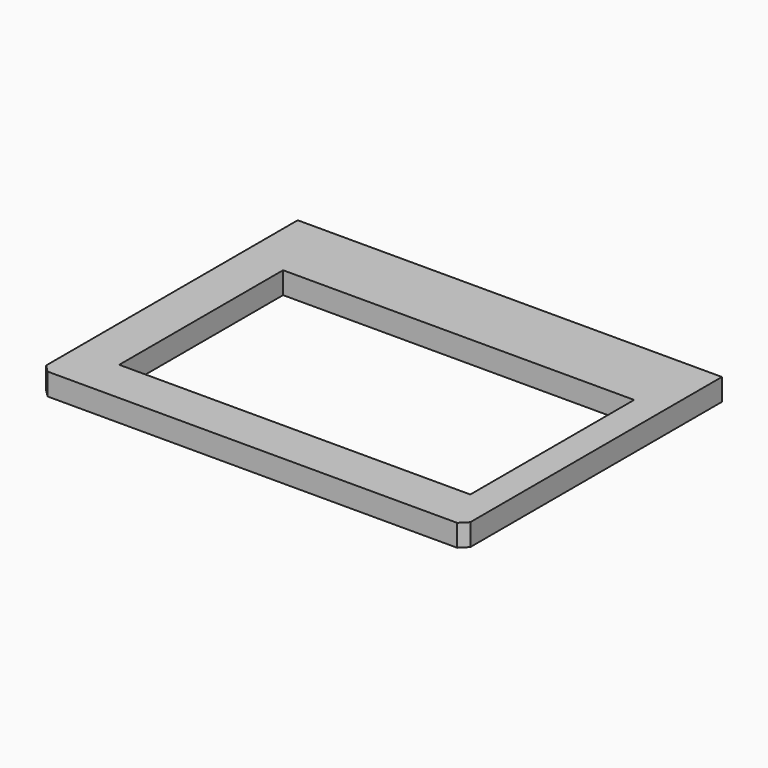
from build123d import *

# Parameters (mm, degrees)
BOX005_W        = 24
BOX005_H        = 14
BOX005_DEPTH    = 1.5
BOX004_W        = 29
BOX004_H        = 22
BOX004_DEPTH    = 1.5
CHAMFER010_SIZE = 0.5


with BuildPart() as cube005:
    # Box005 → Box005 (new body)
    with BuildSketch(Plane(origin=(3, -17, -2), x_dir=(1, 0, 0), z_dir=(0, 0, 1))):
        with Locations((12, 7)):
            Rectangle(BOX005_W, BOX005_H)
    extrude(amount=BOX005_DEPTH)


with BuildPart() as chamfer010:
    # Box004 → Box004 (new body)
    with BuildSketch(Plane(origin=(0, -20, -2), x_dir=(1, 0, 0), z_dir=(0, 0, 1))):
        with Locations((14.5, 11)):
            Rectangle(BOX004_W, BOX004_H)
    extrude(amount=BOX004_DEPTH)

    # Cut: cut Cube005
    add(cube005.part, mode=Mode.SUBTRACT)


with BuildPart() as chamfer010_1:
    # Cut placement: moved
    add(chamfer010.part.moved(Location((0, 0, 0.5))))

    # Chamfer010
    chamfer010_edges = [chamfer010_1.edges().sort_by_distance(p)[0] for p in [
        (0, -20, -0.75),
        (29, -20, -0.75),
    ]]
    chamfer(chamfer010_edges, length=CHAMFER010_SIZE)


solid = chamfer010_1.part
